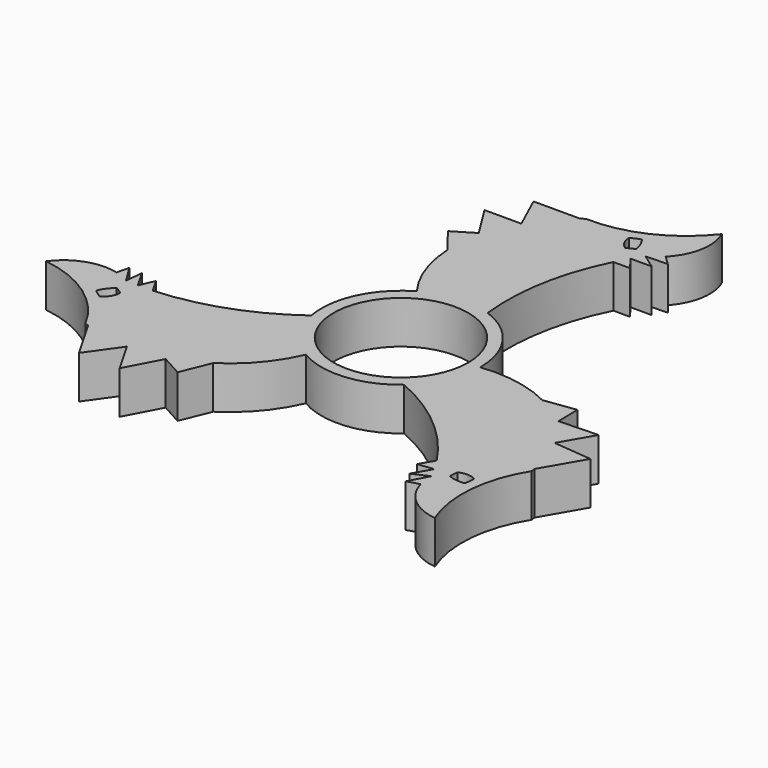
from build123d import *

# Parameters (mm, degrees)
F0_R     = 11
F1_DEPTH = 7


with BuildPart() as f1:
    # F0 (on Top) → F1 (new body)
    with BuildSketch(Plane.XY):
        with BuildLine():
            ThreePointArc((12.9998675053, -0.0586928035), (12.9999668763, -0.0293464765), (13, 0))
            ThreePointArc((13, 0), (10.6212058702, 7.4959979898), (4.3553867904, 12.2486981311))
            ThreePointArc((4.3553867904, 12.2486981311), (-1.1518936393, 12.9488663999), (-6.4491042938, 11.2875619072))
            ThreePointArc((-6.4491042938, 11.2875619072), (-11.7899940722, 5.4768640459), (-12.78537714, -2.3524734618))
            ThreePointArc((-12.78537714, -2.3524734618), (-10.6381004329, -7.4720023541), (-6.5507632115, -11.2288691036))
            ThreePointArc((-6.5507632115, -11.2288691036), (1.1518936393, -12.9488663999), (8.4299903496, -9.8962246693))
            ThreePointArc((8.4299903496, -9.8962246693), (11.7899940722, -5.4768640459), (12.9998675053, -0.0586928035))
        make_face()
        Circle(F0_R, mode=Mode.SUBTRACT)
        with BuildLine():
            ThreePointArc((-6.4491042938, 11.2875619072), (-1.1518936393, 12.9488663999), (4.3553867904, 12.2486981311))
            ThreePointArc((4.3553867904, 12.2486981311), (4.6911379091, 23.0286932253), (8.100961018, 33.2607081496))
            ThreePointArc((8.100961018, 33.2607081496), (8.6567992586, 34.3205730834), (9.2463958264, 35.36203634))
            ThreePointArc((9.2463958264, 35.36203634), (9.7605514778, 36.2110441588), (10.2971438318, 37.0460525155))
            ThreePointArc((10.2971438318, 37.0460525155), (11.39658988, 37.7388536244), (12.3768031473, 38.5920458302))
            ThreePointArc((12.3768031473, 38.5920458302), (14.6675808716, 43.0008688553), (14.0846017748, 47.9349866509))
            ThreePointArc((14.0846017748, 47.9349866509), (6.8911464414, 42.2160675911), (-2.1151392079, 40.388869285))
            ThreePointArc((-2.1151392079, 40.388869285), (-2.393767425, 40.1794812412), (-2.668843506, 39.965448099))
            ThreePointArc((-2.668843506, 39.965448099), (-5.4452369878, 37.3153043367), (-7.6866932218, 34.1996187496))
            ThreePointArc((-7.6866932218, 34.1996187496), (-9.9529658293, 28.6161487308), (-10.5214164041, 22.6171494036))
            ThreePointArc((-10.5214164041, 22.6171494036), (-9.323996956, 16.6508797858), (-6.4491042938, 11.2875619072))
        make_face()
        with BuildLine():
            ThreePointArc((7.051001075, 40.388869285), (8.6740724534, 40.6129338137), (10.2971438318, 40.388869285))
            ThreePointArc((10.2971438318, 40.388869285), (9.3700559238, 39.0032433011), (8.1113596557, 37.9100209718))
            ThreePointArc((8.1113596557, 37.9100209718), (7.4912144869, 37.5507062183), (6.8342023203, 37.2643111495))
            ThreePointArc((6.8342023203, 37.2643111495), (5.0310997778, 36.8856908115), (3.1956662424, 37.0460525155))
            ThreePointArc((3.1956662424, 37.0460525155), (4.1384254151, 38.5358013845), (5.4740093923, 39.6866106607))
            ThreePointArc((5.4740093923, 39.6866106607), (6.2370767108, 40.0948422534), (7.051001075, 40.388869285))
        make_face(mode=Mode.SUBTRACT)
        with BuildLine():
            ThreePointArc((24.8477341467, -2.196760812), (19.0820833679, -0.2506216642), (12.9998675053, -0.0586928035))
            ThreePointArc((12.9998675053, -0.0586928035), (11.7899940722, -5.4768640459), (8.4299903496, -9.8962246693))
            ThreePointArc((8.4299903496, -9.8962246693), (17.5978643945, -15.5769912146), (24.7541376964, -23.6459921114))
            ThreePointArc((24.7541376964, -23.6459921114), (25.3940885333, -24.6572946151), (26.0012238868, -25.6886318491))
            ThreePointArc((26.0012238868, -25.6886318491), (26.4794084001, -26.5584076141), (26.9342506724, -27.4406144026))
            ThreePointArc((26.9342506724, -27.4406144026), (26.9845110085, -28.7391631648), (27.2332904993, -30.0146488583))
            ThreePointArc((27.2332904993, -30.0146488583), (29.9060543777, -34.2029320745), (34.4706152824, -36.1651162646))
            ThreePointArc((34.4706152824, -36.1651162646), (33.1146137611, -27.075941675), (36.0353564349, -18.3626703559))
            ThreePointArc((36.0353564349, -18.3626703559), (35.9933351783, -18.0166772198), (35.9455150804, -17.6714377746))
            ThreePointArc((35.9455150804, -17.6714377746), (35.0386199994, -13.9419386073), (33.4610852478, -10.4429377737))
            ThreePointArc((33.4610852478, -10.4429377737), (29.758794674, -5.6885531142), (24.8477341467, -2.196760812))
        make_face()
        with BuildLine():
            ThreePointArc((28.8547389499, -24.5507483987), (29.42839539, -22.7999056223), (30.4849894672, -21.2905544057))
            ThreePointArc((30.4849894672, -21.2905544057), (31.3037702466, -22.8518822334), (31.6326083261, -24.5839365246))
            ThreePointArc((31.6326083261, -24.5839365246), (31.6046135967, -25.4488880036), (31.4522862935, -26.3007806955))
            ThreePointArc((31.4522862935, -26.3007806955), (30.8347961782, -27.8184340058), (29.829214915, -29.1120227873))
            ThreePointArc((29.829214915, -29.1120227873), (29.0927715668, -27.6163281154), (28.7753613917, -25.979654007))
            ThreePointArc((28.7753613917, -25.979654007), (28.7742582717, -25.26293516), (28.8547389499, -24.5507483987))
        make_face(mode=Mode.SUBTRACT)
        with BuildLine():
            ThreePointArc((-6.5507632115, -11.2288691036), (-10.6381004329, -7.4720023541), (-12.78537714, -2.3524734618))
            ThreePointArc((-12.78537714, -2.3524734618), (-22.2890023036, -7.4517020107), (-32.8550987144, -9.6147160382))
            ThreePointArc((-32.8550987144, -9.6147160382), (-34.0508877919, -9.6632784683), (-35.2476197132, -9.6734044909))
            ThreePointArc((-35.2476197132, -9.6734044909), (-36.2399598779, -9.6526365446), (-37.2313945043, -9.6054381129))
            ThreePointArc((-37.2313945043, -9.6054381129), (-38.3811008885, -8.9996904596), (-39.6100936466, -8.5773969719))
            ThreePointArc((-39.6100936466, -8.5773969719), (-44.5736352493, -8.7979367808), (-48.5552170572, -11.7698703863))
            ThreePointArc((-48.5552170572, -11.7698703863), (-40.0057602025, -15.1401259161), (-33.920217227, -22.0261989291))
            ThreePointArc((-33.920217227, -22.0261989291), (-33.5995677532, -22.1628040214), (-33.2766715744, -22.2940103244))
            ThreePointArc((-33.2766715744, -22.2940103244), (-29.5933830117, -23.3733657294), (-25.774392026, -23.756680976))
            ThreePointArc((-25.774392026, -23.756680976), (-19.8058288446, -22.9275956166), (-14.3263177426, -20.4203885915))
            ThreePointArc((-14.3263177426, -20.4203885915), (-9.7580864119, -16.4002581216), (-6.5507632115, -11.2288691036))
        make_face()
        with BuildLine():
            ThreePointArc((-35.6889412702, -12.7135627508), (-34.4594951678, -14.0857851892), (-33.6806557096, -15.7554981098))
            ThreePointArc((-33.6806557096, -15.7554981098), (-35.4421956617, -15.6839191511), (-37.1066177184, -15.1026741361))
            ThreePointArc((-37.1066177184, -15.1026741361), (-37.8416903076, -14.6459542498), (-38.5032873684, -14.0880885895))
            ThreePointArc((-38.5032873684, -14.0880885895), (-39.5088686316, -12.7944998079), (-40.1263587469, -11.2768464977))
            ThreePointArc((-40.1263587469, -11.2768464977), (-38.4628274906, -11.3869151857), (-36.8867210474, -11.9303669648))
            ThreePointArc((-36.8867210474, -11.9303669648), (-36.2654727586, -12.2877710583), (-35.6889412702, -12.7135627508))
        make_face(mode=Mode.SUBTRACT)
        with BuildLine():
            Line((-13.7161424013, 26.7376997309), (-10.5214164041, 22.6171494036))
            ThreePointArc((-10.5214164041, 22.6171494036), (-9.9529658293, 28.6161487308), (-7.6866932218, 34.1996187496))
            Line((-7.6866932218, 34.1996187496), (-13.7161424013, 34.1996187496))
            Line((-13.7161424013, 34.1996187496), (-10.3218945159, 28.7882397874))
            Line((-10.3218945159, 28.7882397874), (-13.7161424013, 26.7376997309))
        make_face()
        with BuildLine():
            Line((30.0135984064, -1.490322104), (24.8477341467, -2.196760812))
            ThreePointArc((24.8477341467, -2.196760812), (29.758794674, -5.6885531142), (33.4610852478, -10.4429377737))
            Line((33.4610852478, -10.4429377737), (36.4758098376, -5.2212816134))
            Line((36.4758098376, -5.2212816134), (30.0922942441, -5.4550970278))
            Line((30.0922942441, -5.4550970278), (30.0135984064, -1.490322104))
        make_face()
        with BuildLine():
            Line((-16.2974560051, -25.2473776269), (-14.3263177426, -20.4203885915))
            ThreePointArc((-14.3263177426, -20.4203885915), (-19.8058288446, -22.9275956166), (-25.774392026, -23.756680976))
            Line((-25.774392026, -23.756680976), (-22.7596674363, -28.9783371363))
            Line((-22.7596674363, -28.9783371363), (-19.7703997282, -23.3331427596))
            Line((-19.7703997282, -23.3331427596), (-16.2974560051, -25.2473776269))
        make_face()
        with BuildLine():
            Line((-10.3218945159, 39.965448099), (-7.6866932218, 34.1996187496))
            ThreePointArc((-7.6866932218, 34.1996187496), (-5.4452369878, 37.3153043367), (-2.668843506, 39.965448099))
            Line((-2.668843506, 39.965448099), (-10.3218945159, 39.965448099))
        make_face()
        with BuildLine():
            Line((39.7720405853, -11.0437011836), (33.4610852478, -10.4429377737))
            ThreePointArc((33.4610852478, -10.4429377737), (35.0386199994, -13.9419386073), (35.9455150804, -17.6714377746))
            Line((35.9455150804, -17.6714377746), (39.7720405853, -11.0437011836))
        make_face()
        with BuildLine():
            Line((-29.4501460694, -28.9217469154), (-25.774392026, -23.756680976))
            ThreePointArc((-25.774392026, -23.756680976), (-29.5933830117, -23.3733657294), (-33.2766715744, -22.2940103244))
            Line((-33.2766715744, -22.2940103244), (-29.4501460694, -28.9217469154))
        make_face()
        with BuildLine():
            ThreePointArc((31.6326083261, -24.5839365246), (31.3037702466, -22.8518822334), (30.4849894672, -21.2905544057))
            ThreePointArc((30.4849894672, -21.2905544057), (29.42839539, -22.7999056223), (28.8547389499, -24.5507483987))
            ThreePointArc((28.8547389499, -24.5507483987), (30.2478836802, -24.2149589832), (31.6326083261, -24.5839365246))
        make_face()
        with BuildLine():
            ThreePointArc((6.8342023203, 37.2643111495), (5.846827791, 38.3029151694), (5.4740093923, 39.6866106607))
            ThreePointArc((5.4740093923, 39.6866106607), (4.1384254151, 38.5358013845), (3.1956662424, 37.0460525155))
            ThreePointArc((3.1956662424, 37.0460525155), (5.0310997778, 36.8856908115), (6.8342023203, 37.2643111495))
        make_face()
        with BuildLine():
            ThreePointArc((-37.1066177184, -15.1026741361), (-35.4421956617, -15.6839191511), (-33.6806557096, -15.7554981098))
            ThreePointArc((-33.6806557096, -15.7554981098), (-34.4594951678, -14.0857851892), (-35.6889412702, -12.7135627508))
            ThreePointArc((-35.6889412702, -12.7135627508), (-36.0947114712, -14.0879561862), (-37.1066177184, -15.1026741361))
        make_face()
        with BuildLine():
            ThreePointArc((31.4522862935, -26.3007806955), (30.0921060745, -26.3212575331), (28.7753613917, -25.979654007))
            ThreePointArc((28.7753613917, -25.979654007), (29.0927715668, -27.6163281154), (29.829214915, -29.1120227873))
            ThreePointArc((29.829214915, -29.1120227873), (30.8347961782, -27.8184340058), (31.4522862935, -26.3007806955))
        make_face()
        with BuildLine():
            ThreePointArc((8.1113596557, 37.9100209718), (9.3700559238, 39.0032433011), (10.2971438318, 40.388869285))
            ThreePointArc((10.2971438318, 40.388869285), (8.6740724534, 40.6129338137), (7.051001075, 40.388869285))
            ThreePointArc((7.051001075, 40.388869285), (7.7488246459, 39.2211570805), (8.1113596557, 37.9100209718))
        make_face()
        with BuildLine():
            ThreePointArc((-38.5032873684, -14.0880885895), (-37.8409307205, -12.8998995474), (-36.8867210474, -11.9303669648))
            ThreePointArc((-36.8867210474, -11.9303669648), (-38.4628274906, -11.3869151857), (-40.1263587469, -11.2768464977))
            ThreePointArc((-40.1263587469, -11.2768464977), (-39.5088686316, -12.7944998079), (-38.5032873684, -14.0880885895))
        make_face()
        with BuildLine():
            ThreePointArc((10.2971438318, 37.0460525155), (9.7605514778, 36.2110441588), (9.2463958264, 35.36203634))
            Line((9.2463958264, 35.36203634), (12.6792366009, 35.36203634))
            Line((12.6792366009, 35.36203634), (10.2971438318, 37.0460525155))
        make_face()
        with BuildLine():
            ThreePointArc((26.9342506724, -27.4406144026), (26.4794084001, -26.5584076141), (26.0012238868, -25.6886318491))
            Line((26.0012238868, -25.6886318491), (24.2848034995, -28.661559167))
            Line((24.2848034995, -28.661559167), (26.9342506724, -27.4406144026))
        make_face()
        with BuildLine():
            ThreePointArc((-37.2313945043, -9.6054381129), (-36.2399598779, -9.6526365446), (-35.2476197132, -9.6734044909))
            Line((-35.2476197132, -9.6734044909), (-36.9640401004, -6.700477173))
            Line((-36.9640401004, -6.700477173), (-37.2313945043, -9.6054381129))
        make_face()
        with BuildLine():
            ThreePointArc((9.2463958264, 35.36203634), (8.6567992586, 34.3205730834), (8.100961018, 33.2607081496))
            Line((8.100961018, 33.2607081496), (10.7882244635, 33.2607081496))
            Line((10.7882244635, 33.2607081496), (9.2463958264, 35.36203634))
        make_face()
        with BuildLine():
            ThreePointArc((26.0012238868, -25.6886318491), (25.3940885333, -24.6572946151), (24.7541376964, -23.6459921114))
            Line((24.7541376964, -23.6459921114), (23.4105059737, -25.9732305219))
            Line((23.4105059737, -25.9732305219), (26.0012238868, -25.6886318491))
        make_face()
        with BuildLine():
            ThreePointArc((-35.2476197132, -9.6734044909), (-34.0508877919, -9.6632784683), (-32.8550987144, -9.6147160382))
            Line((-32.8550987144, -9.6147160382), (-34.1987304372, -7.2874776277))
            Line((-34.1987304372, -7.2874776277), (-35.2476197132, -9.6734044909))
        make_face()
        with BuildLine():
            ThreePointArc((12.3768031473, 38.5920458302), (11.39658988, 37.7388536244), (10.2971438318, 37.0460525155))
            Line((10.2971438318, 37.0460525155), (13.8669739614, 37.1565501872))
            Line((13.8669739614, 37.1565501872), (12.3768031473, 38.5920458302))
        make_face()
        with BuildLine():
            ThreePointArc((27.2332904993, -30.0146488583), (26.9845110085, -28.7391631648), (26.9342506724, -27.4406144026))
            Line((26.9342506724, -27.4406144026), (25.2450293984, -30.5874268178))
            Line((25.2450293984, -30.5874268178), (27.2332904993, -30.0146488583))
        make_face()
        with BuildLine():
            ThreePointArc((-39.6100936466, -8.5773969719), (-38.3811008885, -8.9996904596), (-37.2313945043, -9.6054381129))
            Line((-37.2313945043, -9.6054381129), (-39.1120033598, -6.5691233694))
            Line((-39.1120033598, -6.5691233694), (-39.6100936466, -8.5773969719))
        make_face()
    extrude(amount=F1_DEPTH)


solid = f1.part
